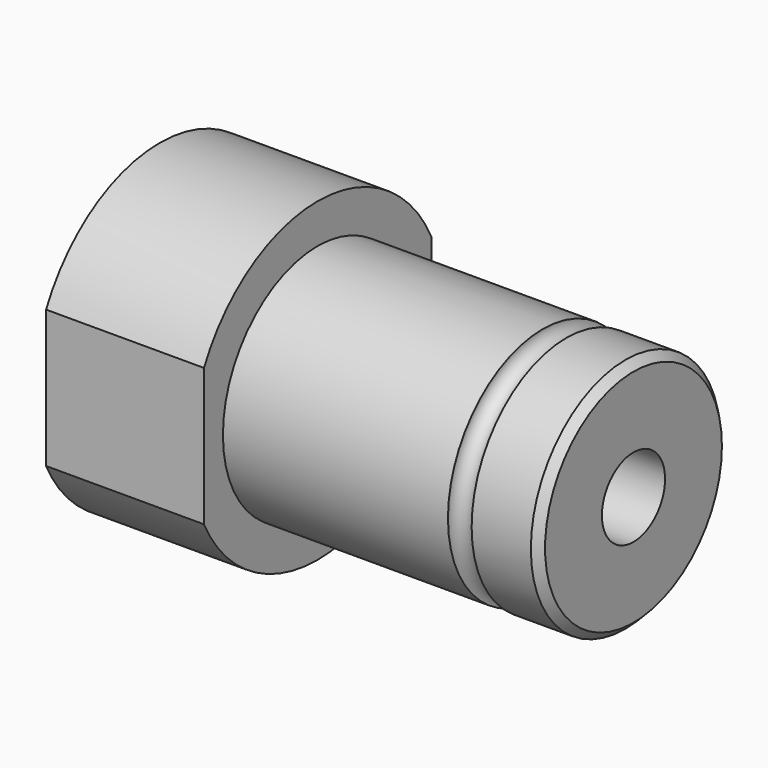
from build123d import *

# Parameters (mm, degrees)
F2_SIZE  = 1
F4_DEPTH = 60.001
F5_R     = 5
F6_DEPTH = 60.001
F7_R     = 1.5


with BuildPart() as f1:
    # F0 (on Top) → F1 (revolve)
    with BuildSketch(Plane.XY):
        Polygon((0, 20), (0, 0), (60, 0), (60, 15), (20, 15), (20, 20), align=None)
    revolve(axis=Axis((30, 0, 0), (-1, 0, 0)))

    # F2
    f2_edges = [f1.edges().sort_by_distance(p)[0] for p in [
        (60, -15, 0),
    ]]
    chamfer(f2_edges, length=F2_SIZE)

    # F3 (on face) → F4 (cut, through all)
    with BuildSketch(Plane(origin=(0, 0, 0), x_dir=(0, -1, 0), z_dir=(-1, 0, 0))):
        with BuildLine():
            Line((-18, -8.7177978871), (-18, 8.7177978871))
            ThreePointArc((-18, 8.7177978871), (-20, 0), (-18, -8.7177978871))
        make_face()
        with BuildLine():
            ThreePointArc((20, 0), (19.4935886896, 4.472135955), (18, 8.7177978871))
            Line((18, 8.7177978871), (18, -8.7177978871))
            ThreePointArc((18, -8.7177978871), (19.4935886896, -4.472135955), (20, 0))
        make_face()
    extrude(amount=-F4_DEPTH, mode=Mode.SUBTRACT)

    # F5 (on face) → F6 (cut, through all)
    with BuildSketch(Plane(origin=(0, 0, 0), x_dir=(0, -1, 0), z_dir=(-1, 0, 0))):
        Circle(F5_R)
    extrude(amount=-F6_DEPTH, mode=Mode.SUBTRACT)

    # F7 (on Front) → F8 (revolve, cut)
    with BuildSketch(Plane.XZ):
        with Locations((50, 15)):
            Circle(F7_R)
    revolve(axis=Axis((60, 0, 0), (-1, 0, 0)), mode=Mode.SUBTRACT)


solid = f1.part
